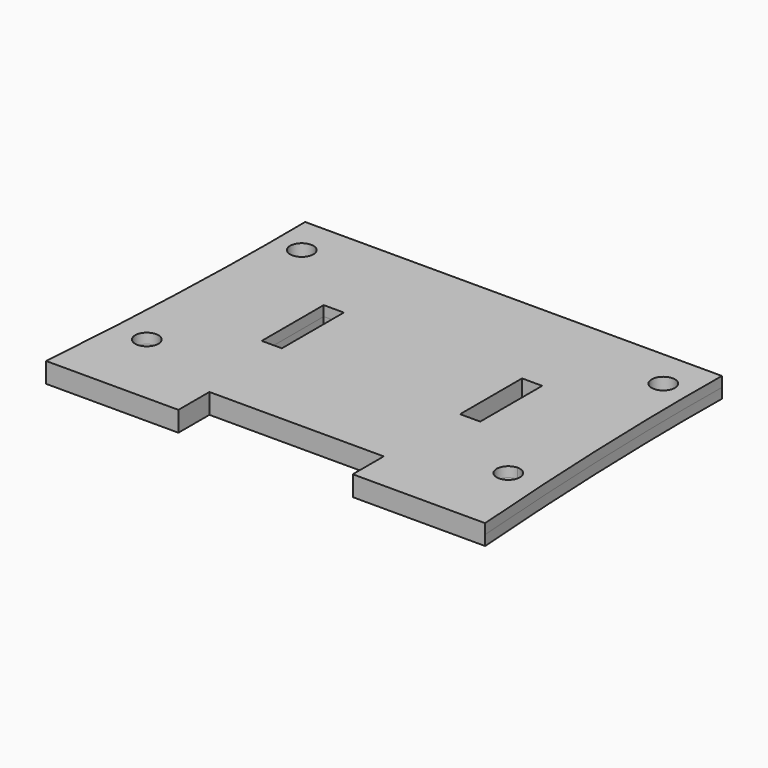
from build123d import *

# Parameters (mm, degrees)
F1_W          = 2.6
F1_H          = 10
F1_R          = 1.5
F2_DEPTH      = 1.3
F2_DEPTH_BACK = 1.3
F4_DEPTH      = 2.6010001


with BuildPart() as f2:
    # F1 (on Top) → F2 (new body, two sides)
    with BuildSketch(Plane.XY) as f2_sk:
        with BuildLine():
            Line((26.8950708133, -115.2), (0, -115.2))
            Line((0, -115.2), (0, -150.2))
            Line((0, -150.2), (11.25, -150.2))
            Line((11.25, -150.2), (11.25, -155.2))
            Line((11.25, -155.2), (23.3302194863, -155.2))
            Line((23.3302194863, -155.2), (28.3302194863, -155.2))
            add(Edge.make_bspline(
                [(28.3302194863, -155.2), (27.4209763541, -143.1676427283), (26.763234957, -130.0249441378), (26.8860792155, -115.9692984983), (26.8950708133, -115.2)],
                knots=[0.0235919502, 0.0235919502, 0.0235919502, 0.0235919502, 0.1835372396, 0.1927653287, 0.1927653287, 0.1927653287, 0.1927653287], degree=3))
        make_face()
        with Locations((12.8, -133.2)):
            Rectangle(F1_W, F1_H, mode=Mode.SUBTRACT)
        with BuildLine():
            ThreePointArc((24.8302194863, -145.2), (24.3908796581, -146.2606601718), (23.3302194863, -146.7))
            ThreePointArc((23.3302194863, -146.7), (21.8302194863, -145.2), (23.3302194863, -143.7))
            ThreePointArc((23.3302194863, -143.7), (24.3908796581, -144.1393398282), (24.8302194863, -145.2))
        make_face(mode=Mode.SUBTRACT)
        with BuildLine():
            ThreePointArc((24.8302194863, -120.2), (24.3908796581, -121.2606601718), (23.3302194863, -121.7))
            ThreePointArc((23.3302194863, -121.7), (22.2695593146, -119.1393398282), (24.8302194863, -120.2))
        make_face(mode=Mode.SUBTRACT)
        with BuildLine():
            add(Edge.make_bspline(
                [(-28.3302194863, -155.2), (-27.4209763541, -143.1676427283), (-26.763234957, -130.0249441378), (-26.8860792155, -115.9692984983), (-26.8950708133, -115.2)],
                knots=[0.0235919502, 0.0235919502, 0.0235919502, 0.0235919502, 0.1835372396, 0.1927653287, 0.1927653287, 0.1927653287, 0.1927653287], degree=3))
            Line((-28.3302194863, -155.2), (-11.25, -155.2))
            Line((-11.25, -155.2), (-11.25, -150.2))
            Line((-11.25, -150.2), (0, -150.2))
            Line((0, -150.2), (0, -115.2))
            Line((0, -115.2), (-26.8950708133, -115.2))
        make_face()
        with Locations((-23.3302194863, -145.2)):
            Circle(F1_R, mode=Mode.SUBTRACT)
        with Locations((-23.3302194863, -120.2)):
            Circle(F1_R, mode=Mode.SUBTRACT)
        with Locations((-12.8, -133.2)):
            Rectangle(F1_W, F1_H, mode=Mode.SUBTRACT)
    extrude(amount=F2_DEPTH)
    extrude(f2_sk.sketch, amount=-F2_DEPTH_BACK)

    # F3 (on face) → F4 (cut, through all)
    with BuildSketch(Plane.XY.offset(1.3)):
        Polygon((35.375, 8.25), (27.6897869255, 8.25), (27.6897869255, -6.25), (35.375, -6.25), (39.6897869255, -6.25), (39.6897869255, 8.25), align=None)
        Polygon((-27.6897869255, -6.25), (-27.6897869255, 8.25), (-35.375, 8.25), (-39.6897869255, 8.25), (-39.6897869255, -6.25), (-35.375, -6.25), align=None)
    extrude(amount=-F4_DEPTH, mode=Mode.SUBTRACT)


solid = f2.part
